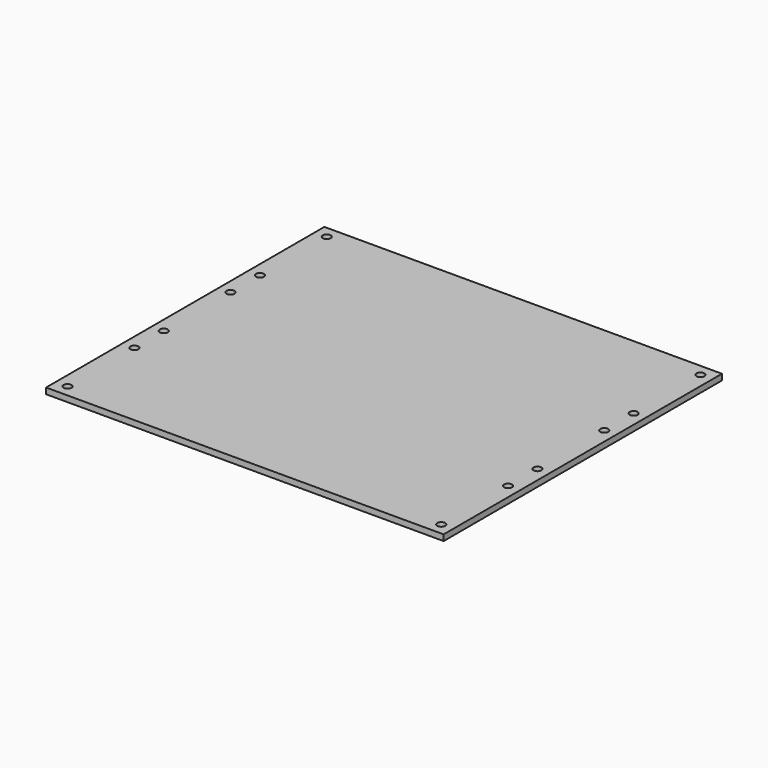
from build123d import *

# Parameters (mm, degrees)
SKETCH_W  = 200
SKETCH_H  = 175
SKETCH_R  = 2
PAD_DEPTH = 3


with BuildPart() as part:
    # Sketch → Pad (new body)
    with BuildSketch(Plane.XY):
        with Locations((100, 87.5)):
            Rectangle(SKETCH_W, SKETCH_H)
        with Locations((6, 48)):
            Circle(SKETCH_R, mode=Mode.SUBTRACT)
        with Locations((6, 6)):
            Circle(SKETCH_R, mode=Mode.SUBTRACT)
        with Locations((194, 48)):
            Circle(SKETCH_R, mode=Mode.SUBTRACT)
        with Locations((194, 6)):
            Circle(SKETCH_R, mode=Mode.SUBTRACT)
        with Locations((6, 169)):
            Circle(SKETCH_R, mode=Mode.SUBTRACT)
        with Locations((6, 127)):
            Circle(SKETCH_R, mode=Mode.SUBTRACT)
        with Locations((6, 108.5)):
            Circle(SKETCH_R, mode=Mode.SUBTRACT)
        with Locations((6, 66.5)):
            Circle(SKETCH_R, mode=Mode.SUBTRACT)
        with Locations((194, 108.5)):
            Circle(SKETCH_R, mode=Mode.SUBTRACT)
        with Locations((194, 66.5)):
            Circle(SKETCH_R, mode=Mode.SUBTRACT)
        with Locations((194, 169)):
            Circle(SKETCH_R, mode=Mode.SUBTRACT)
        with Locations((194, 127)):
            Circle(SKETCH_R, mode=Mode.SUBTRACT)
    extrude(amount=PAD_DEPTH)


solid = part.part
